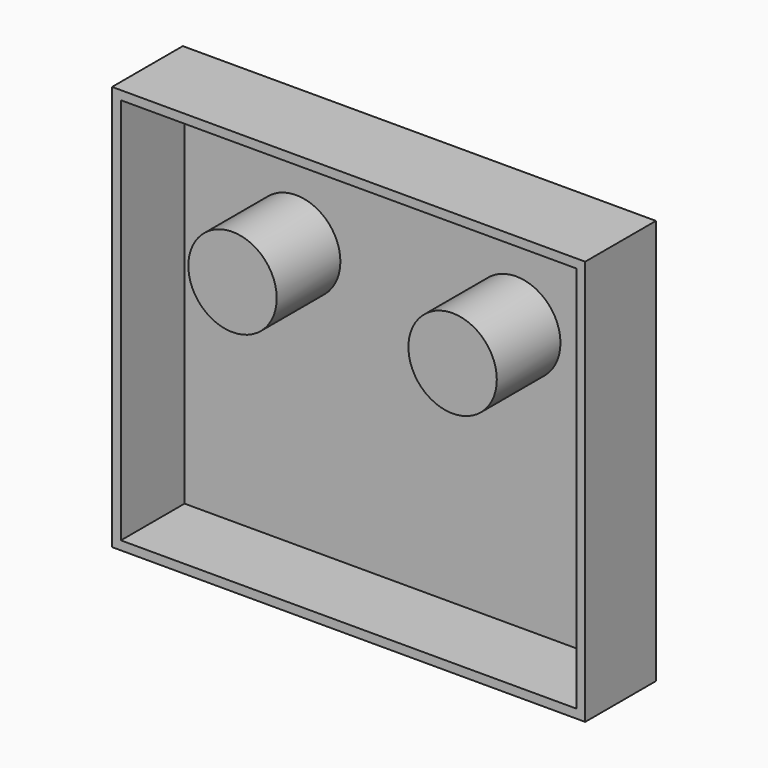
from build123d import *

# Parameters (mm, degrees)
F0_W     = 135.941163
F0_H     = 116.412658
F1_DEPTH = 25.4
F2_T     = -2.54
F3_R     = 12.7
F4_DEPTH = 25.4
F5_R     = 12.7
F6_DEPTH = 25.4


with BuildPart() as f1:
    # F0 (on Front) → F1 (new body)
    with BuildSketch(Plane.XZ):
        with Locations((-4.739925, 2.938757)):
            Rectangle(F0_W, F0_H)
    extrude(amount=F1_DEPTH)

    # F2
    f2_openings = [f1.faces().sort_by_distance(p)[0] for p in [
        (-4.739925, -25.4, 2.938757),
    ]]
    offset(amount=F2_T, openings=f2_openings)

    # F3 (on Front) → F4 (join)
    with BuildSketch(Plane.XZ):
        with Locations((-38.1, 23.045086)):
            Circle(F3_R)
    extrude(amount=F4_DEPTH)

    # F5 (on Front) → F6 (join)
    with BuildSketch(Plane.XZ):
        with Locations((25.130656, 23.045086)):
            Circle(F5_R)
    extrude(amount=F6_DEPTH)


solid = f1.part
